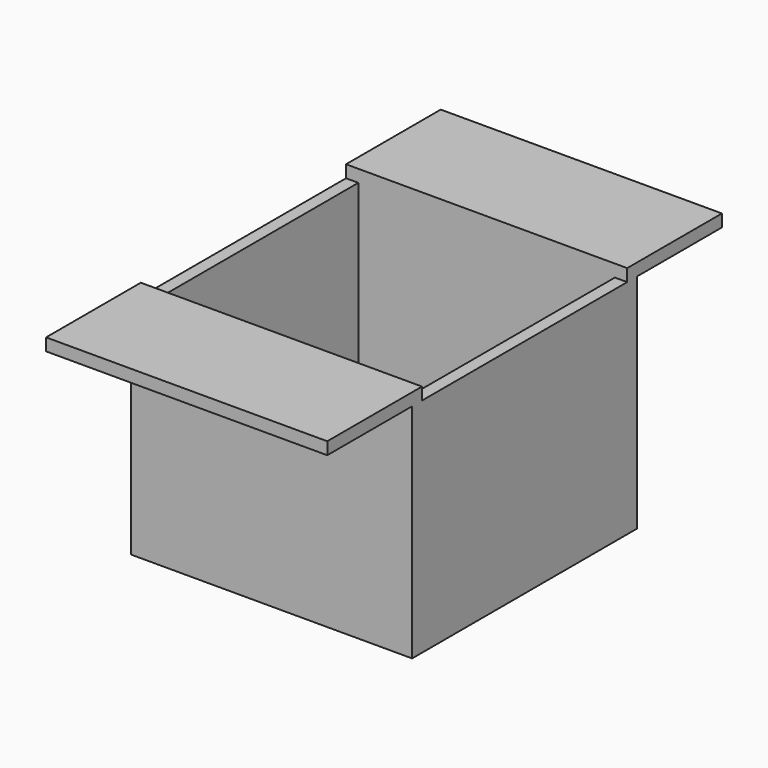
from build123d import *

# Parameters (mm, degrees)
SKETCH001_W   = 114
SKETCH001_H   = 5
SKETCH001_W_2 = 5
SKETCH001_H_2 = 104
PAD001_DEPTH  = 90
SKETCH_W      = 114
SKETCH_H      = 5
PAD_DEPTH     = 5
SKETCH002_W   = 114
SKETCH002_H   = 5
PAD002_DEPTH  = 43
SKETCH003_W   = 114
SKETCH003_H   = 5
PAD003_DEPTH  = 43


with BuildPart() as part:
    # Sketch001 → Pad001 (new body)
    with BuildSketch(Plane.XY):
        with Locations((57, 2.5)):
            Rectangle(SKETCH001_W, SKETCH001_H)
        with Locations((2.5, 57)):
            Rectangle(SKETCH001_W_2, SKETCH001_H_2)
        with Locations((111.5, 57)):
            Rectangle(SKETCH001_W_2, SKETCH001_H_2)
        with Locations((57, 111.5)):
            Rectangle(SKETCH001_W, SKETCH001_H)
    extrude(amount=PAD001_DEPTH)

    # Sketch → Pad (new body)
    with BuildSketch(Plane.XY.offset(90)):
        with Locations((57, 111.5)):
            Rectangle(SKETCH_W, SKETCH_H)
        with Locations((57, 2.5)):
            Rectangle(SKETCH_W, SKETCH_H)
    extrude(amount=PAD_DEPTH)

    # Sketch002 → Pad002 (new body)
    with BuildSketch(Plane.XZ):
        with Locations((57, 92.5)):
            Rectangle(SKETCH002_W, SKETCH002_H)
    extrude(amount=PAD002_DEPTH)

    # Sketch003 → Pad003 (new body)
    with BuildSketch(Plane(origin=(0, 114, 0), x_dir=(-1, 0, 0), z_dir=(0, 1, 0))):
        with Locations((-57, 92.5)):
            Rectangle(SKETCH003_W, SKETCH003_H)
    extrude(amount=PAD003_DEPTH)


solid = part.part
